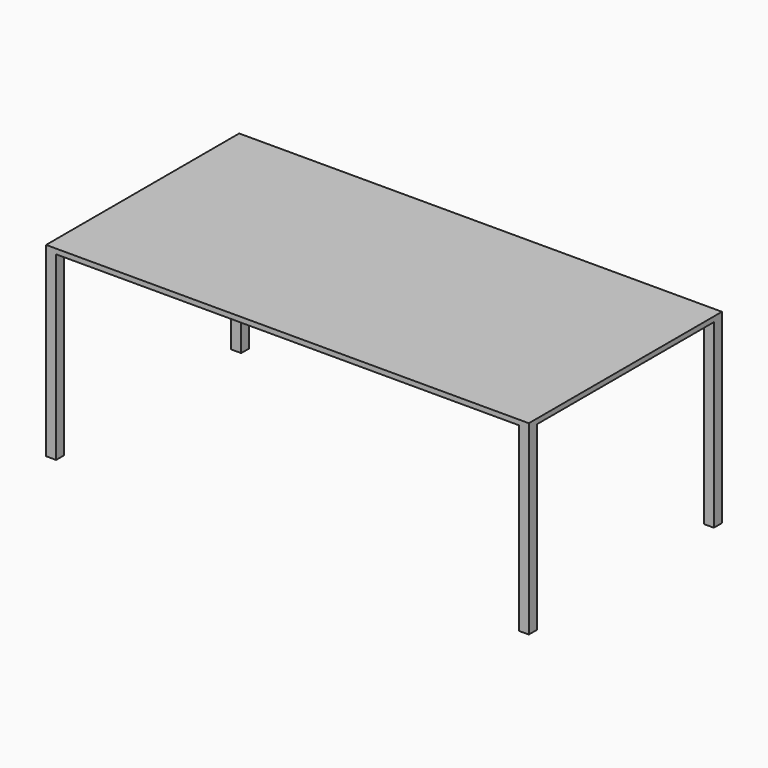
from build123d import *

# Parameters (mm, degrees)
F0_W     = 2438.4
F0_H     = 1219.2
F1_DEPTH = 25.4
F2_W     = 50.8
F2_H     = 50.8
F3_DEPTH = 914.4


with BuildPart() as f1:
    # F0 (on Top) → F1 (new body)
    with BuildSketch(Plane.XY):
        with Locations((1220.767016, 609.6)):
            Rectangle(F0_W, F0_H)
    extrude(amount=F1_DEPTH)

    # F2 (on face) → F3 (join)
    with BuildSketch(Plane(origin=(0, 0, 0), x_dir=(1, 0, 0), z_dir=(0, 0, -1))):
        with Locations((26.967016, -25.4)):
            Rectangle(F2_W, F2_H)
        with Locations((26.967016, -1193.8)):
            Rectangle(F2_W, F2_H)
        with Locations((2414.567016, -25.4)):
            Rectangle(F2_W, F2_H)
        with Locations((2414.567016, -1193.8)):
            Rectangle(F2_W, F2_H)
    extrude(amount=F3_DEPTH)


solid = f1.part
